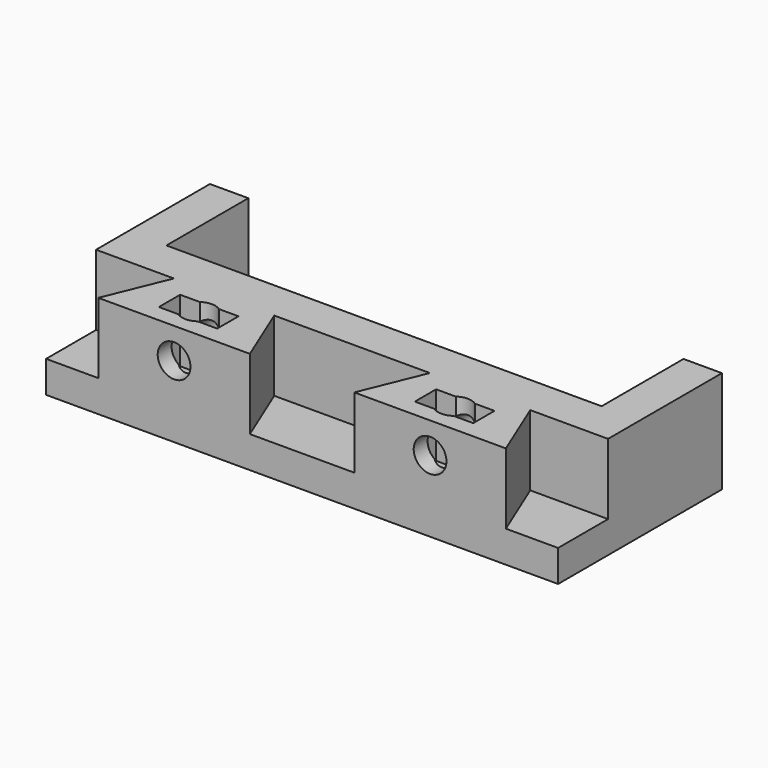
from build123d import *

# Parameters (mm, degrees)
SKETCH_W        = 50
SKETCH_H        = 20
PAD_DEPTH       = 10
SKETCH001_W     = 42.5
SKETCH001_H     = 10
POCKET_DEPTH    = 7
SKETCH002_R     = 1.6
POCKET001_DEPTH = 5
POCKET002_DEPTH = 6.9
SKETCH004_R     = 1.6
POCKET003_DEPTH = 10
SKETCH005_W     = 5.7
SKETCH005_H     = 2.6
POCKET004_DEPTH = 6.15
SKETCH006_R     = 1.6
POCKET005_DEPTH = 10


with BuildPart() as part:
    # Sketch → Pad (new body)
    with BuildSketch(Plane.XY):
        with Locations((25, 10)):
            Rectangle(SKETCH_W, SKETCH_H)
    extrude(amount=PAD_DEPTH)

    # Sketch001 (on Face6 of Pad) → Pocket (cut)
    with BuildSketch(Plane.XY.offset(10)):
        with Locations((25, 15)):
            Rectangle(SKETCH001_W, SKETCH001_H)
    extrude(amount=-POCKET_DEPTH, mode=Mode.SUBTRACT)

    # Sketch002 (on Face6 of Pocket) → Pocket001 (cut)
    with BuildSketch(Plane.XY.offset(3)):
        with Locations((9.5, 15.7)):
            Circle(SKETCH002_R)
        with Locations((40.5, 15.7)):
            Circle(SKETCH002_R)
    extrude(amount=-POCKET001_DEPTH, mode=Mode.SUBTRACT)

    # Sketch003 (on Face4 of Pocket001) → Pocket002 (cut)
    with BuildSketch(Plane.XY.offset(10)):
        Polygon((5.1, 0), (7.6, 6.1), (0, 6.1), (0, 0), align=None)
        Polygon((19.9, 0), (17.4, 6.1), (32.6, 6.1), (30.1, 0), align=None)
        Polygon((42.4, 6.1), (44.9, 0), (50, 0), (50, 6.1), align=None)
    extrude(amount=-POCKET002_DEPTH, mode=Mode.SUBTRACT)

    # Sketch004 (on Face4 of Pocket002) → Pocket003 (cut)
    with BuildSketch(Plane.XY.offset(10)):
        with Locations((12.5, 3)):
            Circle(SKETCH004_R)
        with Locations((37.5, 3)):
            Circle(SKETCH004_R)
    extrude(amount=-POCKET003_DEPTH, mode=Mode.SUBTRACT)

    # Sketch005 (on Face4 of Pocket003) → Pocket004 (cut)
    with BuildSketch(Plane.XY.offset(10)):
        with Locations((12.5, 3)):
            Rectangle(SKETCH005_W, SKETCH005_H)
        with Locations((37.5, 3)):
            Rectangle(SKETCH005_W, SKETCH005_H)
    extrude(amount=-POCKET004_DEPTH, mode=Mode.SUBTRACT)

    # Sketch006 (on Face9 of Pocket004) → Pocket005 (cut)
    with BuildSketch(Plane.XZ):
        with Locations((12.5, 7)):
            Circle(SKETCH006_R)
        with Locations((37.5, 7)):
            Circle(SKETCH006_R)
    extrude(amount=-POCKET005_DEPTH, mode=Mode.SUBTRACT)


solid = part.part
